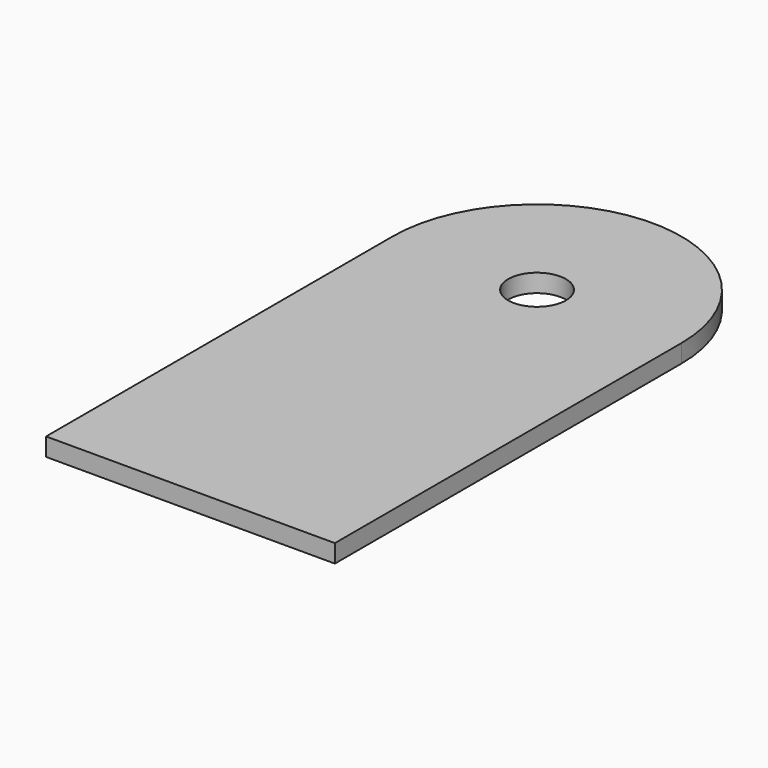
from build123d import *

# Parameters (mm, degrees)
F0_R     = 5.08
F1_DEPTH = 3.175


with BuildPart() as f1:
    # F0 (on Top) → F1 (new body)
    with BuildSketch(Plane.XY):
        with BuildLine():
            Line((0, 76.2), (0, 0))
            Line((0, 0), (50.8, 0))
            Line((50.8, 0), (50.8, 76.2))
            ThreePointArc((50.8, 76.2), (25.4, 101.6), (0, 76.2))
        make_face()
        with Locations((25.4, 76.2)):
            Circle(F0_R, mode=Mode.SUBTRACT)
    extrude(amount=F1_DEPTH)


solid = f1.part
